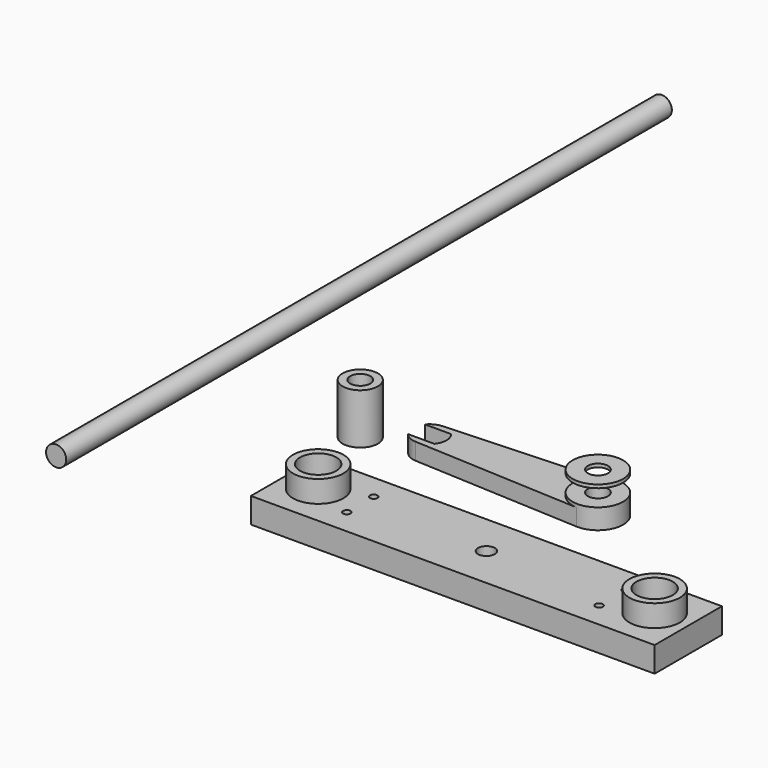
from build123d import *

# Parameters (mm, degrees)
F0_R      = 6
F1_DEPTH  = 450
F3_DEPTH  = 15
F5_R      = 15
F5_R_2    = 10.8
F6_DEPTH  = 26
F7_DEPTH  = 25
F8_R      = 10.5
F8_R_2    = 6
F9_DEPTH  = 30
F10_R     = 6
F11_DEPTH = 10
F12_DEPTH = 12
F14_R     = 15
F14_R_2   = 6
F15_DEPTH = 2
F16_R     = 2.2
F17_DEPTH = 25
F18_R     = 4
F19_DEPTH = 5


with BuildPart() as f1:
    # F0 (on Front) → F1 (new body)
    with BuildSketch(Plane.XZ):
        with Locations((-58.6313195527, 11.818244122)):
            Circle(F0_R)
    extrude(amount=-F1_DEPTH)


with BuildPart() as f3:
    # F2 (on Top) → F3 (new body)
    with BuildSketch(Plane.XY):
        with BuildLine():
            Line((112.6172155437, 70.2547036733), (40.9390357137, 70.2547036733))
            Line((40.9390357137, 70.2547036733), (40.9390357137, 40.0247901491))
            Line((40.9390357137, 40.0247901491), (56.2535217803, 40.0541307068))
            ThreePointArc((56.2535217803, 40.0541307068), (58.0928626281, 51.6499596312), (67.9390357137, 45.2547036733))
            ThreePointArc((67.9390357137, 45.2547036733), (67.3397328209, 42.420788265), (65.6444424161, 40.0721224859))
            Line((65.6444424161, 40.0721224859), (112.6748688046, 40.1622266485))
            Line((112.6748688046, 40.1622266485), (112.6651122828, 45.2547036733))
            Line((112.6651122828, 45.2547036733), (112.6172155437, 70.2547036733))
        make_face()
        with BuildLine():
            Line((280.9390357137, 70.2547036733), (112.6172155437, 70.2547036733))
            Line((112.6172155437, 70.2547036733), (112.6651122828, 45.2547036733))
            Line((112.6651122828, 45.2547036733), (112.6748688046, 40.1622266485))
            Line((112.6748688046, 40.1622266485), (160.9390357137, 40.254694497))
            Line((160.9390357137, 40.254694497), (255.8611008882, 40.4365527927))
            ThreePointArc((255.8611008882, 40.4365527927), (258.3453456568, 51.7564551211), (267.9390357137, 45.2547036733))
            ThreePointArc((267.9390357137, 45.2547036733), (267.4457443917, 42.6734748615), (266.035395091, 40.4560454133))
            Line((266.035395091, 40.4560454133), (280.9390357137, 40.4845988448))
            Line((280.9390357137, 40.4845988448), (280.9390357137, 70.2547036733))
        make_face()
        with BuildLine():
            ThreePointArc((165.9390357137, 45.2547036733), (164.4745696196, 41.7191697674), (160.9390357137, 40.2547036733))
            ThreePointArc((160.9390357137, 40.2547036733), (157.4035018077, 48.7902375793), (165.9390357137, 45.2547036733))
        make_face(mode=Mode.SUBTRACT)
        with BuildLine():
            Line((56.2535217803, 40.0541307068), (40.9390357137, 40.0247901491))
            Line((40.9390357137, 40.0247901491), (40.9390357137, 20.2547036733))
            Line((40.9390357137, 20.2547036733), (112.713009022, 20.2547036733))
            Line((112.713009022, 20.2547036733), (112.6748688046, 40.1622266485))
            Line((112.6748688046, 40.1622266485), (65.6444424161, 40.0721224859))
            ThreePointArc((65.6444424161, 40.0721224859), (60.952446776, 38.2547165203), (56.2535217803, 40.0541307068))
        make_face()
        with BuildLine():
            Line((280.9390357137, 20.2547036733), (280.9390357137, 40.4845988448))
            Line((280.9390357137, 40.4845988448), (266.035395091, 40.4560454133))
            ThreePointArc((266.035395091, 40.4560454133), (260.952446776, 38.2547165203), (255.8611008882, 40.4365527927))
            Line((255.8611008882, 40.4365527927), (160.9390357137, 40.254694497))
            Line((160.9390357137, 40.254694497), (112.6748688046, 40.1622266485))
            Line((112.6748688046, 40.1622266485), (112.713009022, 20.2547036733))
            Line((112.713009022, 20.2547036733), (280.9390357137, 20.2547036733))
        make_face()
    extrude(amount=F3_DEPTH)

    # F5 (on offset) → F6 (join)
    with BuildSketch(Plane.XY.offset(2)):
        with Locations((60.9390357137, 45.2547036733)):
            Circle(F5_R)
        with Locations((60.9390357137, 45.2547036733)):
            Circle(F5_R_2, mode=Mode.SUBTRACT)
        with Locations((260.9390357137, 45.2547036733)):
            Circle(F5_R)
        with Locations((260.9390357137, 45.2547036733)):
            Circle(F5_R_2, mode=Mode.SUBTRACT)
    extrude(amount=F6_DEPTH)

    # F5 (on offset) → F7 (cut)
    with BuildSketch(Plane.XY.offset(2)):
        with Locations((260.9390357137, 45.2547036733)):
            Circle(F5_R_2)
        with Locations((60.9390357137, 45.2547036733)):
            Circle(F5_R_2)
    extrude(amount=F7_DEPTH, mode=Mode.SUBTRACT)

    # F16 (on face) → F17 (cut)
    with BuildSketch(Plane.XY.offset(15)):
        with Locations((85.9390357137, 55.2547036733)):
            Circle(F16_R)
        with Locations((85.9390357137, 35.2547036733)):
            Circle(F16_R)
        with Locations((235.9390357137, 55.2547036733)):
            Circle(F16_R)
        with Locations((235.9390357137, 35.2547036733)):
            Circle(F16_R)
    extrude(amount=-F17_DEPTH, mode=Mode.SUBTRACT)

    # F18 (on face) → F19 (cut)
    with BuildSketch(Plane.XY):
        with Locations((85.9390357137, 35.2547036733)):
            Circle(F18_R)
        with Locations((85.9390357137, 55.2547036733)):
            Circle(F18_R)
        with Locations((235.9390357137, 35.2547036733)):
            Circle(F18_R)
        with Locations((235.9390357137, 55.2547036733)):
            Circle(F18_R)
    extrude(amount=F19_DEPTH, mode=Mode.SUBTRACT)


with BuildPart() as f9:
    # F8 (on Top) → F9 (new body)
    with BuildSketch(Plane.XY):
        with Locations((25.685980916, 120.5813884735)):
            Circle(F8_R)
        with Locations((25.685980916, 120.5813884735)):
            Circle(F8_R_2, mode=Mode.SUBTRACT)
    extrude(amount=F9_DEPTH)


with BuildPart() as f11:
    # F10 (on Top) → F11 (new body)
    with BuildSketch(Plane.XY):
        with BuildLine():
            ThreePointArc((160.1890357137, 113.1150491054), (171.2770722777, 117.2277548123), (175.9390357137, 128.096287372))
            ThreePointArc((175.9390357137, 128.096287372), (171.2770722777, 138.9648199316), (160.1890357137, 143.0775256385))
            ThreePointArc((160.1890357137, 143.0775256385), (145.9390357137, 128.096287372), (160.1890357137, 113.1150491054))
        make_face()
        with Locations((160.9390357137, 128.096287372)):
            Circle(F10_R, mode=Mode.SUBTRACT)
        with BuildLine():
            ThreePointArc((160.1890357137, 113.1150491054), (145.9390357137, 128.096287372), (160.1890357137, 143.0775256385))
            Line((160.1890357137, 143.0775256385), (60.4390357137, 138.0837795497))
            ThreePointArc((60.4390357137, 138.0837795497), (65.0423910566, 137.2156335618), (68.7452832117, 134.346287372))
            Line((68.7452832117, 134.346287372), (75.4908919334, 134.346287372))
            Line((75.4908919334, 134.346287372), (75.4908919334, 121.846287372))
            Line((75.4908919334, 121.846287372), (68.7452832117, 121.846287372))
            ThreePointArc((68.7452832117, 121.846287372), (65.0423910566, 118.9769411821), (60.4390357137, 118.1087951942))
            Line((60.4390357137, 118.1087951942), (160.1890357137, 113.1150491054))
        make_face()
        with BuildLine():
            ThreePointArc((68.7452832117, 134.346287372), (65.0423910566, 137.2156335618), (60.4390357137, 138.0837795497))
            ThreePointArc((60.4390357137, 138.0837795497), (56.3848454652, 136.9990594785), (53.1327882157, 134.346287372))
            Line((53.1327882157, 134.346287372), (68.7452832117, 134.346287372))
        make_face()
        with BuildLine():
            ThreePointArc((53.1327882157, 121.846287372), (56.3848454652, 119.1935152654), (60.4390357137, 118.1087951942))
            ThreePointArc((60.4390357137, 118.1087951942), (65.0423910566, 118.9769411821), (68.7452832117, 121.846287372))
            Line((68.7452832117, 121.846287372), (53.1327882157, 121.846287372))
        make_face()
        with BuildLine():
            Line((75.4908919334, 134.346287372), (68.7452832117, 134.346287372))
            ThreePointArc((68.7452832117, 134.346287372), (70.9390357137, 128.096287372), (68.7452832117, 121.846287372))
            Line((68.7452832117, 121.846287372), (75.4908919334, 121.846287372))
            Line((75.4908919334, 121.846287372), (75.4908919334, 134.346287372))
        make_face()
    extrude(amount=F11_DEPTH)

    # F10 (on Top) → F12 (join)
    with BuildSketch(Plane.XY):
        with BuildLine():
            ThreePointArc((160.1890357137, 113.1150491054), (171.2770722777, 117.2277548123), (175.9390357137, 128.096287372))
            ThreePointArc((175.9390357137, 128.096287372), (171.2770722777, 138.9648199316), (160.1890357137, 143.0775256385))
            ThreePointArc((160.1890357137, 143.0775256385), (145.9390357137, 128.096287372), (160.1890357137, 113.1150491054))
        make_face()
        with Locations((160.9390357137, 128.096287372)):
            Circle(F10_R, mode=Mode.SUBTRACT)
    extrude(amount=F12_DEPTH)


with BuildPart() as f15:
    # F14 (on offset) → F15 (new body)
    with BuildSketch(Plane.XY.offset(22)):
        with Locations((160.9390357137, 128.096287372)):
            Circle(F14_R)
        with Locations((160.9390357137, 128.096287372)):
            Circle(F14_R_2, mode=Mode.SUBTRACT)
    extrude(amount=F15_DEPTH)


solid = Compound([f1.part, f3.part, f9.part, f11.part, f15.part])
